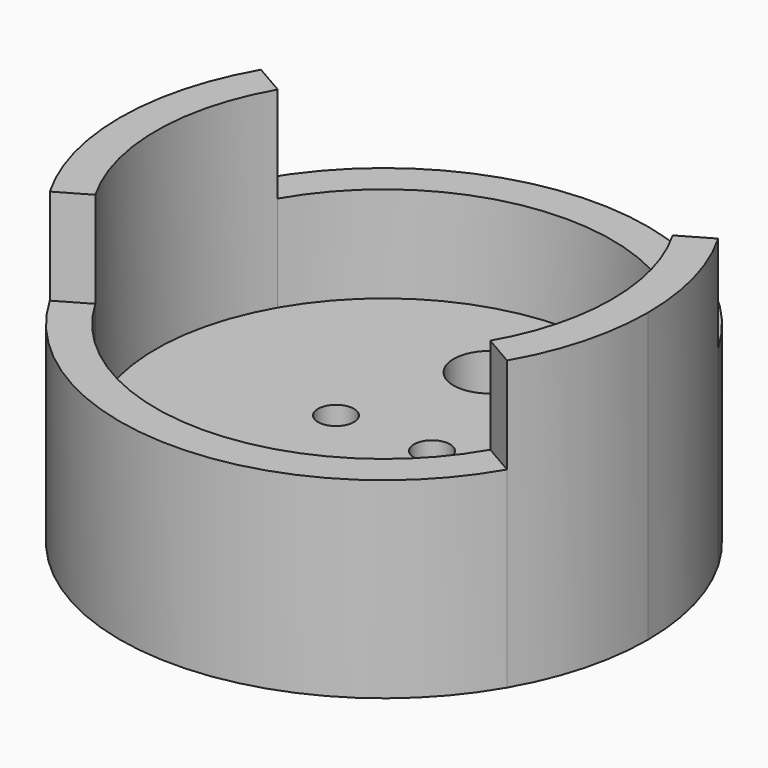
from build123d import *

# Parameters (mm, degrees)
F1_DEPTH       = 8
F2_DEPTH       = 4
F3_D           = 1.5
F4_DEPTH       = 12
F5_D           = 3
F5_CSINK_D     = 6
F5_CSINK_ANGLE = 90


with BuildPart() as f1:
    # F0 (on Top) → F1 (new body)
    with BuildSketch(Plane.XY):
        with BuildLine():
            Line((8.227241336, 4.75), (9.5262794416, 5.5))
            ThreePointArc((9.5262794416, 5.5), (0, 11), (-9.5262794416, 5.5))
            Line((-9.5262794416, 5.5), (-8.227241336, 4.75))
            ThreePointArc((-8.227241336, 4.75), (0, 9.5), (8.227241336, 4.75))
        make_face()
    extrude(amount=F1_DEPTH)



with BuildPart() as f1b:
    # F0 (on Top) → F1, piece 2 (new body)
    with BuildSketch(Plane.XY):
        with BuildLine():
            ThreePointArc((-9.5262794416, -5.5), (0, -11), (9.5262794416, -5.5))
            Line((9.5262794416, -5.5), (8.227241336, -4.75))
            ThreePointArc((8.227241336, -4.75), (0, -9.5), (-8.227241336, -4.75))
            Line((-8.227241336, -4.75), (-9.5262794416, -5.5))
        make_face()
    extrude(amount=F1_DEPTH)


with BuildPart() as f1_1:
    add(f1.part)

    add(f1b.part)  # F2 merges F1b
    # F0 (on Top) → F2 (join)
    with BuildSketch(Plane.XY):
        with BuildLine():
            ThreePointArc((9.5, 0), (9.1762953497, 2.4587809285), (8.227241336, 4.75))
            ThreePointArc((8.227241336, 4.75), (0, 9.5), (-8.227241336, 4.75))
            ThreePointArc((-8.227241336, 4.75), (-9.5, 0), (-8.227241336, -4.75))
            ThreePointArc((-8.227241336, -4.75), (0, -9.5), (8.227241336, -4.75))
            ThreePointArc((8.227241336, -4.75), (9.1762953497, -2.4587809285), (9.5, 0))
        make_face()
    extrude(amount=F2_DEPTH)

    # F3 (through all)
    with Locations(Plane(origin=(0, 0, 0), x_dir=(1, 0, 0), z_dir=(0, 0, -1))):
        with Locations((2, 0), (-2, 0)):
            Hole(F3_D / 2)

    # F0 (on Top) → F4 (join)
    with BuildSketch(Plane.XY):
        with BuildLine():
            Line((-8.227241336, 4.75), (-9.5262794416, 5.5))
            ThreePointArc((-9.5262794416, 5.5), (-11, 0), (-9.5262794416, -5.5))
            Line((-9.5262794416, -5.5), (-8.227241336, -4.75))
            ThreePointArc((-8.227241336, -4.75), (-9.5, 0), (-8.227241336, 4.75))
        make_face()
        with BuildLine():
            ThreePointArc((9.5262794416, -5.5), (10.6251840892, -2.8470094961), (11, 0))
            ThreePointArc((11, 0), (10.6251840892, 2.8470094961), (9.5262794416, 5.5))
            Line((9.5262794416, 5.5), (8.227241336, 4.75))
            ThreePointArc((8.227241336, 4.75), (9.1762953497, 2.4587809285), (9.5, 0))
            ThreePointArc((9.5, 0), (9.1762953497, -2.4587809285), (8.227241336, -4.75))
            Line((8.227241336, -4.75), (9.5262794416, -5.5))
        make_face()
    extrude(amount=F4_DEPTH)

    # F5 (through all)
    with Locations(Plane(origin=(0, 0, 0), x_dir=(1, 0, 0), z_dir=(0, 0, -1))):
        with Locations((0, 4), (0, -5.5)):
            CounterSinkHole(F5_D / 2, F5_CSINK_D / 2, counter_sink_angle=F5_CSINK_ANGLE)


solid = f1_1.part
